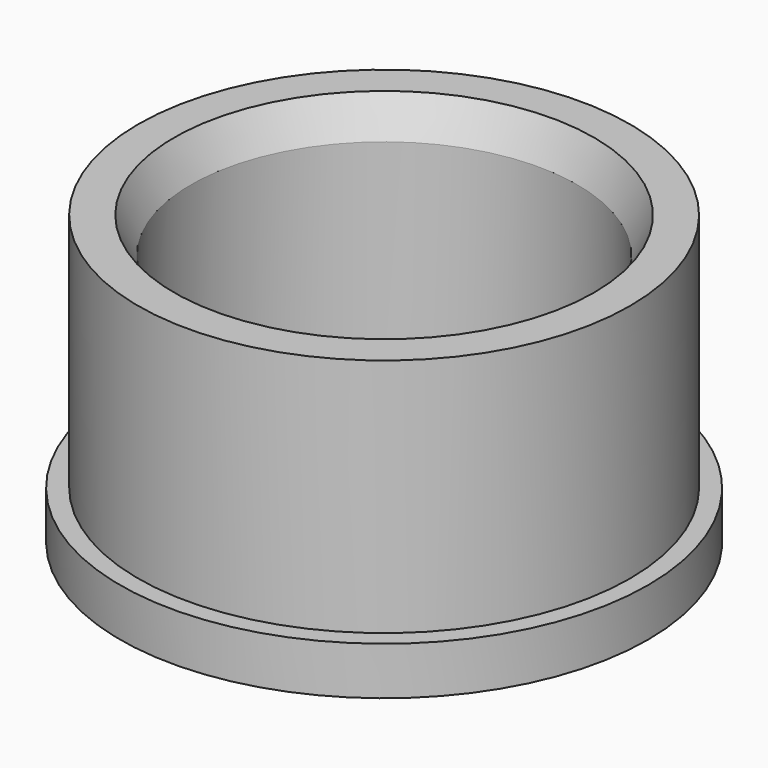
from build123d import *

# Parameters (mm, degrees)
F0_R     = 11
F0_R_2   = 8.05
F1_DEPTH = 2
F2_R     = 10.25
F2_R_2   = 8.05
F3_DEPTH = 10
F4_SIZE2 = 0.6994614872
F4_SIZE  = 1.5


with BuildPart() as f1:
    # F0 (on Top) → F1 (new body)
    with BuildSketch(Plane.XY):
        Circle(F0_R)
        Circle(F0_R_2, mode=Mode.SUBTRACT)
    extrude(amount=F1_DEPTH)

    # F2 (on face) → F3 (join)
    with BuildSketch(Plane.XY.offset(2)):
        Circle(F2_R)
        Circle(F2_R_2, mode=Mode.SUBTRACT)
    extrude(amount=F3_DEPTH)

    # F4
    f4_edges = [f1.edges().sort_by_distance(p)[0] for p in [
        (-8.05, 0, 12),
    ]]
    f4_side = f1.faces().sort_by_distance((-8.05, 0, 6))[0]
    chamfer(f4_edges, length=F4_SIZE, length2=F4_SIZE2, reference=f4_side)


solid = f1.part
